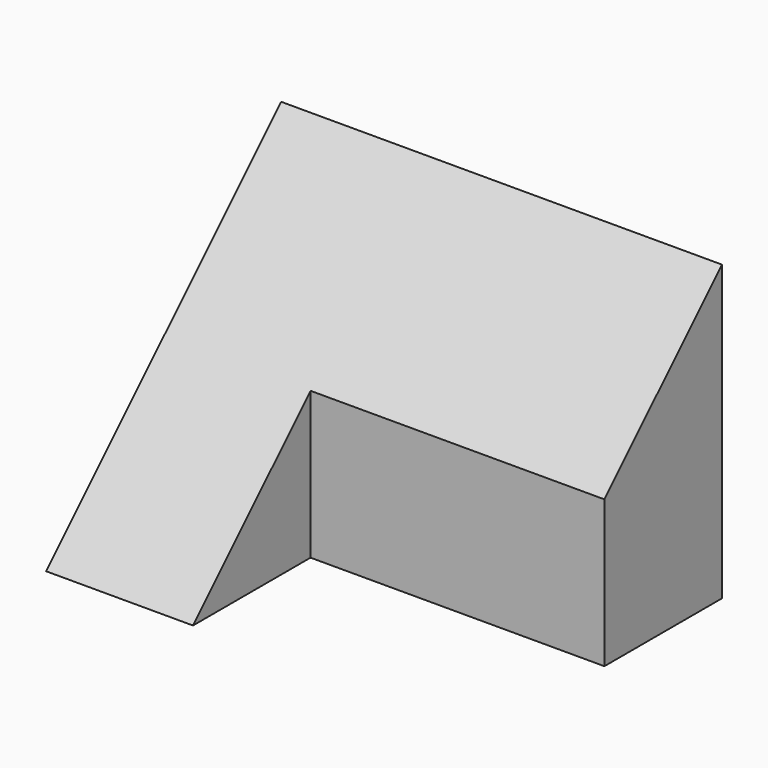
from build123d import *

# Parameters (mm, degrees)
F0_W     = 38.1
F0_H     = 25.4
F1_DEPTH = 12.7
F3_DEPTH = 38.101
F5_DEPTH = 25.4


with BuildPart() as f1:
    # F0 (on Front) → F1 (new body, symmetric)
    with BuildSketch(Plane.XZ):
        with Locations((19.05, 12.7)):
            Rectangle(F0_W, F0_H)
    extrude(amount=F1_DEPTH, both=True)

    # F2 (on face) → F3 (cut, through all)
    with BuildSketch(Plane.YZ.offset(38.1)):
        Polygon((12.7, 25.4), (-12.7, 25.4), (-12.7, 0), align=None)
    extrude(amount=-F3_DEPTH, mode=Mode.SUBTRACT)

    # F4 (on face) → F5 (cut)
    with BuildSketch(Plane.YZ.offset(38.1)):
        Polygon((0, 0), (0, 12.7), (-12.7, 0), align=None)
    extrude(amount=-F5_DEPTH, mode=Mode.SUBTRACT)


solid = f1.part
